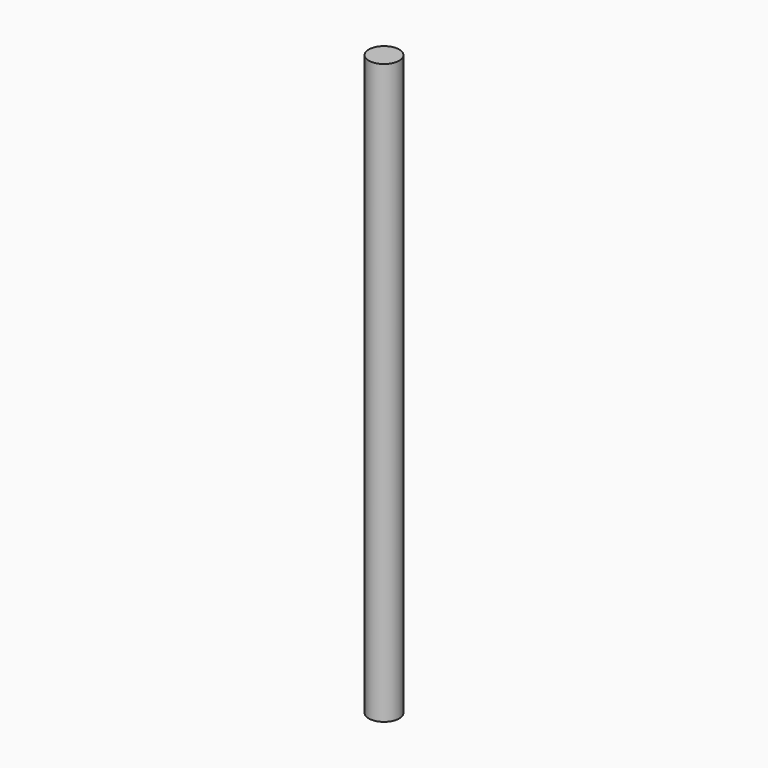
from build123d import *

# Parameters (mm, degrees)
F0_R     = 26.3604411939
F1_DEPTH = 100.000054
F3_R     = 1.999996
F4_DEPTH = 76.2


with BuildPart() as f1:
    # F0 (on Top) → F1 (new body)
    with BuildSketch(Plane.XY):
        Circle(F0_R)
    extrude(amount=F1_DEPTH)


with BuildPart() as f4:
    # F3 (on Top) → F4 (new body)
    with BuildSketch(Plane.XY):
        Circle(F3_R)
    extrude(amount=F4_DEPTH)


solid = f4.part
